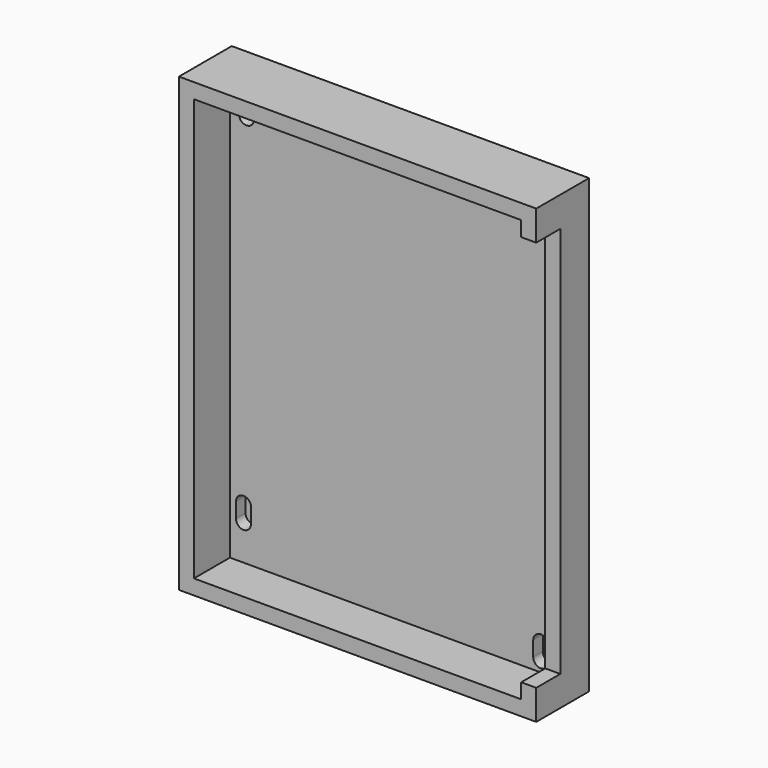
from build123d import *

# Parameters (mm, degrees)
F0_W     = 119
F0_H     = 150.5
F1_DEPTH = 22
F2_W     = 109
F2_H     = 140.5
F3_DEPTH = 15
F5_DEPTH = 25
F7_DEPTH = 4


with BuildPart() as f1:
    # F0 (on Front) → F1 (new body)
    with BuildSketch(Plane.XZ):
        Rectangle(F0_W, F0_H)
    extrude(amount=F1_DEPTH)

    # F2 (on face) → F3 (cut)
    with BuildSketch(Plane.XZ.offset(22)):
        Rectangle(F2_W, F2_H)
    extrude(amount=-F3_DEPTH, mode=Mode.SUBTRACT)

    # F4 (on face) → F5 (cut)
    with BuildSketch(Plane.YZ.offset(59.5)):
        Polygon((-22, 65.25), (-22, 0), (-22, -65.25), (-12, -65.25), (-12, 0), (-12, 65.25), align=None)
    extrude(amount=-F5_DEPTH, mode=Mode.SUBTRACT)

    # F6 (on face) → F7 (cut)
    with BuildSketch(Plane.XZ.offset(7)):
        with BuildLine():
            Line((-46.5, 60.75), (-46.5, 65.75))
            ThreePointArc((-46.5, 65.75), (-49, 68.25), (-51.5, 65.75))
            Line((-51.5, 65.75), (-51.5, 60.75))
            ThreePointArc((-51.5, 60.75), (-49, 58.25), (-46.5, 60.75))
        make_face()
        with BuildLine():
            Line((51.5, 61.75), (51.5, 66.75))
            ThreePointArc((51.5, 66.75), (49, 69.25), (46.5, 66.75))
            Line((46.5, 66.75), (46.5, 61.75))
            ThreePointArc((46.5, 61.75), (49, 59.25), (51.5, 61.75))
        make_face()
        with BuildLine():
            Line((46.5, -61.55), (46.5, -66.55))
            ThreePointArc((46.5, -66.55), (49, -69.05), (51.5, -66.55))
            Line((51.5, -66.55), (51.5, -61.55))
            ThreePointArc((51.5, -61.55), (49, -59.05), (46.5, -61.55))
        make_face()
        with BuildLine():
            Line((-52.5, -53.15), (-52.5, -58.15))
            ThreePointArc((-52.5, -58.15), (-50, -60.65), (-47.5, -58.15))
            Line((-47.5, -58.15), (-47.5, -53.524891))
            ThreePointArc((-47.5, -53.524891), (-49.797974, -50.642983), (-52.5, -53.15))
        make_face()
    extrude(amount=-F7_DEPTH, mode=Mode.SUBTRACT)


solid = f1.part
